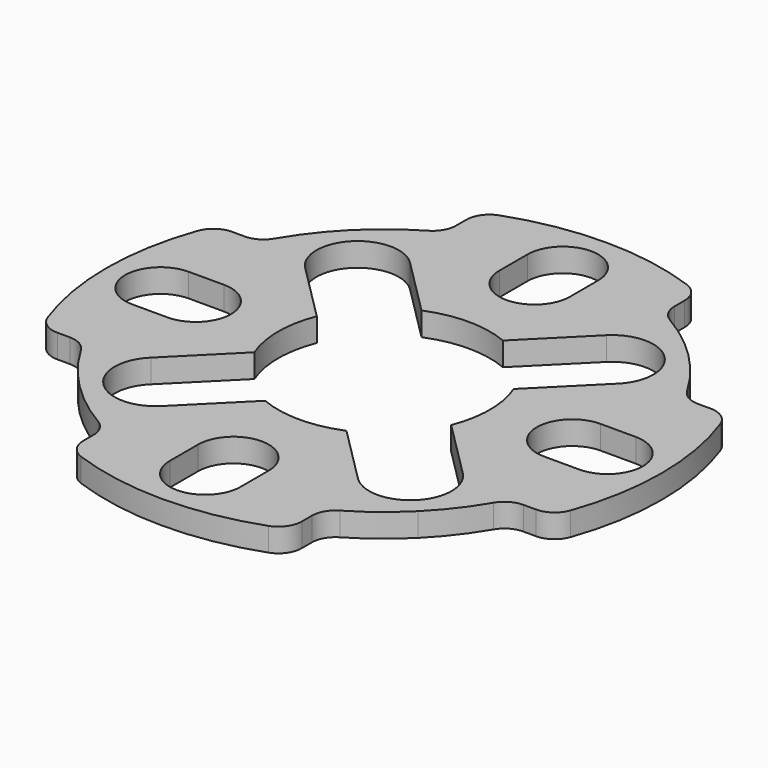
from build123d import *

# Parameters (mm, degrees)
F1_DEPTH = 1


with BuildPart() as f1:
    # F0 (on Top) → F1 (new body)
    with BuildSketch(Plane.XY):
        with BuildLine():
            ThreePointArc((4.64256, 10.16719), (4.460262, 10.742831), (3.979834, 11.108597))
            ThreePointArc((3.979834, 11.108597), (0, 11.8), (-3.979834, 11.108597))
            ThreePointArc((-3.979834, 11.108597), (-4.460262, 10.742831), (-4.64256, 10.16719))
            Line((-4.64256, 10.16719), (-4.64256, 9.633))
            ThreePointArc((-4.64256, 9.633), (-4.774969, 9.135722), (-5.137132, 8.770131))
            ThreePointArc((-5.137132, 8.770131), (-6.21269, 8.044117), (-7.186979, 7.186979))
            ThreePointArc((-7.186979, 7.186979), (-8.044117, 6.21269), (-8.770131, 5.137132))
            ThreePointArc((-8.770131, 5.137132), (-9.135722, 4.774969), (-9.633, 4.64256))
            Line((-9.633, 4.64256), (-10.16719, 4.64256))
            ThreePointArc((-10.16719, 4.64256), (-10.742831, 4.460262), (-11.108597, 3.979834))
            ThreePointArc((-11.108597, 3.979834), (-11.8, 0), (-11.108597, -3.979834))
            ThreePointArc((-11.108597, -3.979834), (-10.742831, -4.460262), (-10.16719, -4.64256))
            Line((-10.16719, -4.64256), (-9.633, -4.64256))
            ThreePointArc((-9.633, -4.64256), (-9.135722, -4.774969), (-8.770131, -5.137132))
            ThreePointArc((-8.770131, -5.137132), (-8.044117, -6.21269), (-7.186979, -7.186979))
            ThreePointArc((-7.186979, -7.186979), (-6.21269, -8.044117), (-5.137132, -8.770131))
            ThreePointArc((-5.137132, -8.770131), (-4.774969, -9.135722), (-4.64256, -9.633))
            Line((-4.64256, -9.633), (-4.64256, -10.16719))
            ThreePointArc((-4.64256, -10.16719), (-4.460262, -10.742831), (-3.979834, -11.108597))
            ThreePointArc((-3.979834, -11.108597), (0, -11.8), (3.979834, -11.108597))
            ThreePointArc((3.979834, -11.108597), (4.460262, -10.742831), (4.64256, -10.16719))
            Line((4.64256, -10.16719), (4.64256, -9.633))
            ThreePointArc((4.64256, -9.633), (4.774969, -9.135722), (5.137132, -8.770131))
            ThreePointArc((5.137132, -8.770131), (6.21269, -8.044117), (7.186979, -7.186979))
            ThreePointArc((7.186979, -7.186979), (8.044117, -6.21269), (8.770131, -5.137132))
            ThreePointArc((8.770131, -5.137132), (9.135722, -4.774969), (9.633, -4.64256))
            Line((9.633, -4.64256), (10.16719, -4.64256))
            ThreePointArc((10.16719, -4.64256), (10.742831, -4.460262), (11.108597, -3.979834))
            ThreePointArc((11.108597, -3.979834), (11.8, 0), (11.108597, 3.979834))
            ThreePointArc((11.108597, 3.979834), (10.742831, 4.460262), (10.16719, 4.64256))
            Line((10.16719, 4.64256), (9.633, 4.64256))
            ThreePointArc((9.633, 4.64256), (9.135722, 4.774969), (8.770131, 5.137132))
            ThreePointArc((8.770131, 5.137132), (8.044117, 6.21269), (7.186979, 7.186979))
            ThreePointArc((7.186979, 7.186979), (6.21269, 8.044117), (5.137132, 8.770131))
            ThreePointArc((5.137132, 8.770131), (4.774969, 9.135722), (4.64256, 9.633))
            Line((4.64256, 9.633), (4.64256, 10.16719))
        make_face()
        with BuildLine():
            ThreePointArc((-9.5, -1.5), (-11, 0), (-9.5, 1.5))
            Line((-9.5, 1.5), (-8, 1.5))
            ThreePointArc((-8, 1.5), (-6.5, 0), (-8, -1.5))
            Line((-8, -1.5), (-9.5, -1.5))
        make_face(mode=Mode.SUBTRACT)
        with BuildLine():
            Line((1.5, -8), (1.5, -9.5))
            ThreePointArc((1.5, -9.5), (0, -11), (-1.5, -9.5))
            Line((-1.5, -9.5), (-1.5, -8))
            ThreePointArc((-1.5, -8), (0, -6.5), (1.5, -8))
        make_face(mode=Mode.SUBTRACT)
        with BuildLine():
            Line((-4.17097, 6.596394), (-1.729112, 4.154536))
            ThreePointArc((-1.729112, 4.154536), (0, 4.5), (1.729112, 4.154536))
            Line((1.729112, 4.154536), (4.17097, 6.596394))
            ThreePointArc((4.17097, 6.596394), (6.65805, 6.584305), (6.621784, 4.097461))
            Line((6.621784, 4.097461), (4.183111, 1.658788))
            ThreePointArc((4.183111, 1.658788), (4.5, 0), (4.183111, -1.658788))
            Line((4.183111, -1.658788), (6.621784, -4.097461))
            ThreePointArc((6.621784, -4.097461), (6.65805, -6.584305), (4.17097, -6.596394))
            Line((4.17097, -6.596394), (1.729112, -4.154536))
            ThreePointArc((1.729112, -4.154536), (0, -4.5), (-1.729112, -4.154536))
            Line((-1.729112, -4.154536), (-4.17097, -6.596394))
            ThreePointArc((-4.17097, -6.596394), (-6.65805, -6.584305), (-6.621784, -4.097461))
            Line((-6.621784, -4.097461), (-4.183111, -1.658788))
            ThreePointArc((-4.183111, -1.658788), (-4.5, 0), (-4.183111, 1.658788))
            Line((-4.183111, 1.658788), (-6.621784, 4.097461))
            ThreePointArc((-6.621784, 4.097461), (-6.65805, 6.584305), (-4.17097, 6.596394))
        make_face(mode=Mode.SUBTRACT)
        with BuildLine():
            Line((8, 1.5), (9.5, 1.5))
            ThreePointArc((9.5, 1.5), (11, 0), (9.5, -1.5))
            Line((9.5, -1.5), (8, -1.5))
            ThreePointArc((8, -1.5), (6.5, 0), (8, 1.5))
        make_face(mode=Mode.SUBTRACT)
        with BuildLine():
            ThreePointArc((-1.5, 9.5), (0, 11), (1.5, 9.5))
            Line((1.5, 9.5), (1.5, 8))
            ThreePointArc((1.5, 8), (0, 6.5), (-1.5, 8))
            Line((-1.5, 8), (-1.5, 9.5))
        make_face(mode=Mode.SUBTRACT)
    extrude(amount=F1_DEPTH)


solid = f1.part
